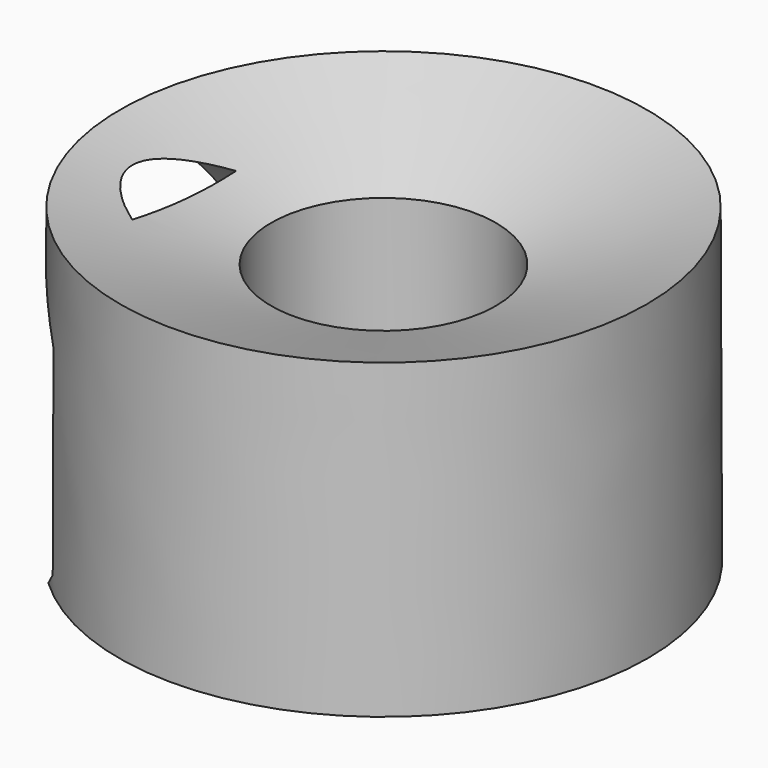
from build123d import *

# Parameters (mm, degrees)
F2_R     = 37.958364699
F3_DEPTH = 25.399999693


with BuildPart() as f1:
    # F0 (on Front) → F1 (revolve)
    with BuildSketch(Plane.XZ):
        Polygon((115.5123189092, 116.3347512484), (83.8526785374, 105.7259817888), (83.8526785374, 41.3565523922), (115.743175149, 51.0456599295), align=None)
    revolve(axis=Axis((60.2732487023, 0, 87.5743832439), (0, 0, -1)))

    # F2 (on Right) → F3 (cut)
    with BuildSketch(Plane.YZ):
        with Locations((-11.3635012621, 75.3479318831)):
            Circle(F2_R)
    extrude(amount=F3_DEPTH, mode=Mode.SUBTRACT)


solid = f1.part
